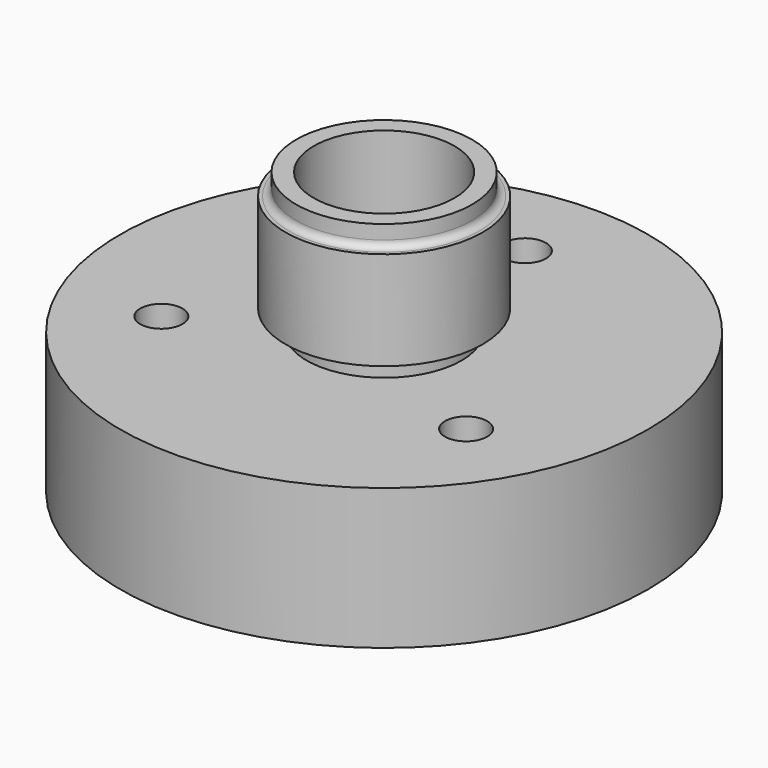
from build123d import *

# Parameters (mm, degrees)
SKETCH004_R        = 24.41662
SKETCH004_R_2      = 11
PAD002_DEPTH       = 3
SKETCH_R           = 37.5
PAD_DEPTH          = 20
SKETCH001_R        = 30
POCKET_DEPTH       = 8
SKETCH002_R        = 3
POCKET001_DEPTH    = 235.871331
POLARPATTERN_COUNT = 3
SKETCH003_R        = 14
PAD001_DEPTH       = 20
SKETCH005_R        = 10
POCKET002_DEPTH    = 40.001
SKETCH006_R        = 20.656229
SKETCH006_R_2      = 12.5
POCKET003_DEPTH    = 3
FILLET_R           = 1
FILLET001_R        = 1


with BuildPart() as pad002:
    # Sketch004 → Pad002 (new body)
    with BuildSketch(Plane.XY.offset(20)):
        Circle(SKETCH004_R)
        Circle(SKETCH004_R_2, mode=Mode.SUBTRACT)
    extrude(amount=PAD002_DEPTH)


with BuildPart() as fillet001:
    # Sketch → Pad (new body)
    with BuildSketch(Plane.XY):
        Circle(SKETCH_R)
    extrude(amount=PAD_DEPTH)

    # Sketch001 → Pocket (cut)
    with BuildSketch(Plane(origin=(0, 0, 0), x_dir=(1, 0, 0), z_dir=(0, 0, -1))):
        Circle(SKETCH001_R)
    extrude(amount=-POCKET_DEPTH, mode=Mode.SUBTRACT)

    # Sketch002 → Pocket001 (cut, through all)
    with BuildSketch(Plane.XY.offset(20)):
        with Locations((0, 25)):
            Circle(SKETCH002_R)
    pocket001 = extrude(amount=-POCKET001_DEPTH, mode=Mode.SUBTRACT)

    # PolarPattern: Pocket001 ×3 about axis
    polarpattern_axis = Axis((0, 0, 20), (0, 0, 1))
    for i in range(1, POLARPATTERN_COUNT):
        add(pocket001.rotate(polarpattern_axis, i * 360 / POLARPATTERN_COUNT), mode=Mode.SUBTRACT)

    # Sketch003 → Pad001 (new body)
    with BuildSketch(Plane.XY.offset(20)):
        Circle(SKETCH003_R)
    extrude(amount=PAD001_DEPTH)

    # Cut: cut Pad002
    add(pad002.part, mode=Mode.SUBTRACT)

    # Sketch005 → Pocket002 (cut, through all)
    with BuildSketch(Plane.XY.offset(40)):
        Circle(SKETCH005_R)
    extrude(amount=-POCKET002_DEPTH, mode=Mode.SUBTRACT)

    # Sketch006 → Pocket003 (cut)
    with BuildSketch(Plane.XY.offset(40)):
        Circle(SKETCH006_R)
        Circle(SKETCH006_R_2, mode=Mode.SUBTRACT)
    extrude(amount=-POCKET003_DEPTH, mode=Mode.SUBTRACT)

    # Fillet
    fillet_edges = [fillet001.edges().sort_by_distance(p)[0] for p in [
        (-12.5, 0, 37),
    ]]
    fillet(fillet_edges, radius=FILLET_R)

    # Fillet001
    fillet001_edges = [fillet001.edges().sort_by_distance(p)[0] for p in [
        (-11, 0, 23),
    ]]
    fillet(fillet001_edges, radius=FILLET001_R)


solid = fillet001.part
